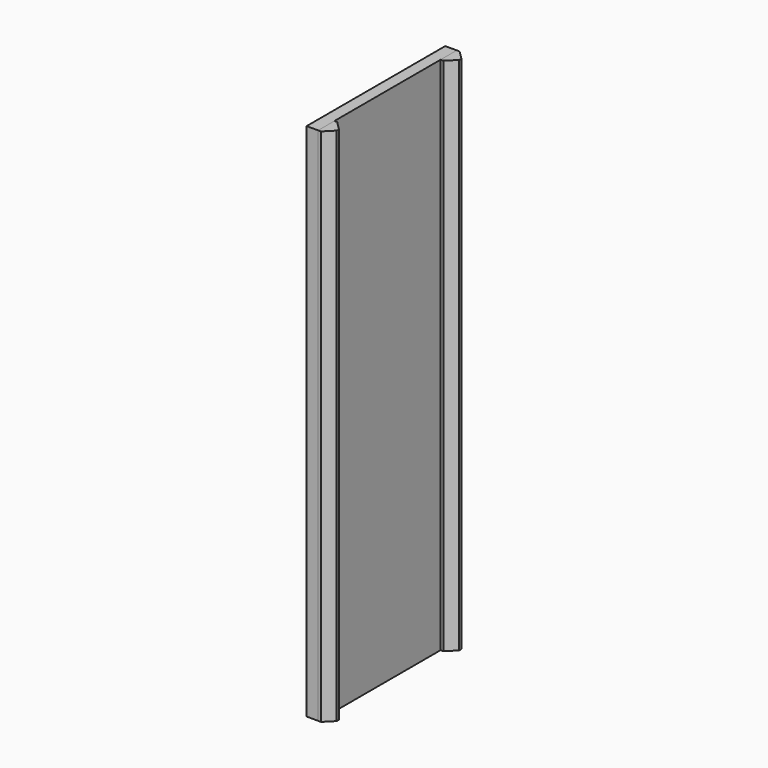
from build123d import *

# Parameters (mm, degrees)
F0_W      = 76.2
F0_H      = 228.6
F1_DEPTH  = 7.62
F2_W      = 8.89
F2_H      = 228.6
F3_DEPTH  = 5.08
F4_SIZE   = 3.81
F4_2_SIZE = 3.81
F5_DEPTH  = 2.54


with BuildPart() as f1:
    # F0 (on Right) → F1 (new body)
    with BuildSketch(Plane.YZ):
        Rectangle(F0_W, F0_H)
    extrude(amount=F1_DEPTH)

    # F5 (cut): a face of the model
    f5_faces = [f1.faces().sort_by_distance(p)[0] for p in [
        (0, 0, 0),
    ]]
    extrude(f5_faces, amount=-F5_DEPTH, mode=Mode.SUBTRACT)


with BuildPart() as f3:
    # F2 (on face) → F3 (new body)
    with BuildSketch(Plane.YZ.offset(7.62)):
        with Locations((-33.655, 0)):
            Rectangle(F2_W, F2_H)
    extrude(amount=F3_DEPTH)

    # F4
    f4_edges = [f3.edges().sort_by_distance(p)[0] for p in [
        (12.7, -38.1, 0),
        (12.7, -29.21, 0),
    ]]
    chamfer(f4_edges, length=F4_SIZE)


with BuildPart() as f3b:
    # F2 (on face) → F3, piece 2 (new body)
    with BuildSketch(Plane.YZ.offset(7.62)):
        with Locations((33.655, 0)):
            Rectangle(F2_W, F2_H)
    extrude(amount=F3_DEPTH)

    # F4#2
    f4_2_edges = [f3b.edges().sort_by_distance(p)[0] for p in [
        (12.7, 29.21, 0),
        (12.7, 38.1, 0),
    ]]
    chamfer(f4_2_edges, length=F4_2_SIZE)


solid = Compound([f1.part, f3.part, f3b.part])
